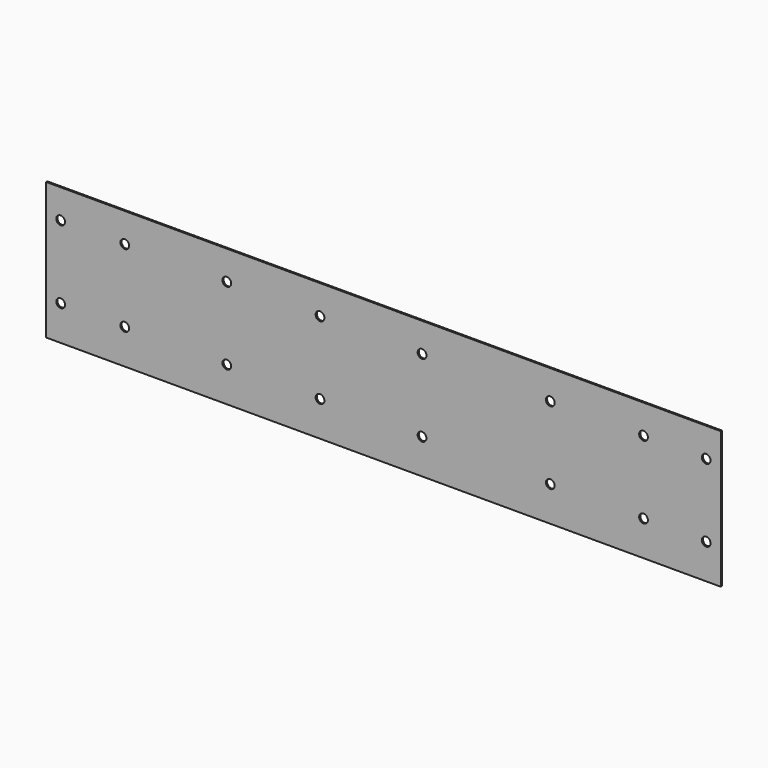
from build123d import *

# Parameters (mm, degrees)
F0_W     = 45
F0_H     = 47
F0_R     = 1.5
F0_W_2   = 66
F0_W_3   = 65.5
F0_W_4   = 10
F1_DEPTH = 0.5


with BuildPart() as f1:
    # F0 (on Front) → F1 (new body)
    with BuildSketch(Plane.XZ):
        with Locations((-33.870392, 9.922413)):
            Rectangle(F0_W, F0_H)
        with Locations((-51.370392, -1.577587)):
            Circle(F0_R, mode=Mode.SUBTRACT)
        with Locations((-29.370392, -1.577587)):
            Circle(F0_R, mode=Mode.SUBTRACT)
        with Locations((-51.370392, 23.422413)):
            Circle(F0_R, mode=Mode.SUBTRACT)
        with Locations((-29.370392, 23.422413)):
            Circle(F0_R, mode=Mode.SUBTRACT)
        with Locations((21.629608, 9.922413)):
            Rectangle(F0_W_2, F0_H)
        with Locations((5.629608, -1.577587)):
            Circle(F0_R, mode=Mode.SUBTRACT)
        with Locations((37.629608, -1.577587)):
            Circle(F0_R, mode=Mode.SUBTRACT)
        with Locations((5.629608, 23.422413)):
            Circle(F0_R, mode=Mode.SUBTRACT)
        with Locations((37.629608, 23.422413)):
            Circle(F0_R, mode=Mode.SUBTRACT)
        with Locations((77.129608, 9.922413)):
            Rectangle(F0_W, F0_H)
        with Locations((72.629608, -1.577587)):
            Circle(F0_R, mode=Mode.SUBTRACT)
        with Locations((72.629608, 23.422413)):
            Circle(F0_R, mode=Mode.SUBTRACT)
        with Locations((132.379608, 9.922413)):
            Rectangle(F0_W_3, F0_H)
        with Locations((116.629608, -1.577587)):
            Circle(F0_R, mode=Mode.SUBTRACT)
        with Locations((148.629608, -1.577587)):
            Circle(F0_R, mode=Mode.SUBTRACT)
        with Locations((116.629608, 23.422413)):
            Circle(F0_R, mode=Mode.SUBTRACT)
        with Locations((148.629608, 23.422413)):
            Circle(F0_R, mode=Mode.SUBTRACT)
        with Locations((170.129608, 9.922413)):
            Rectangle(F0_W_4, F0_H)
        with Locations((170.129608, -1.577587)):
            Circle(F0_R, mode=Mode.SUBTRACT)
        with Locations((170.129608, 23.422413)):
            Circle(F0_R, mode=Mode.SUBTRACT)
    extrude(amount=F1_DEPTH)


solid = f1.part
